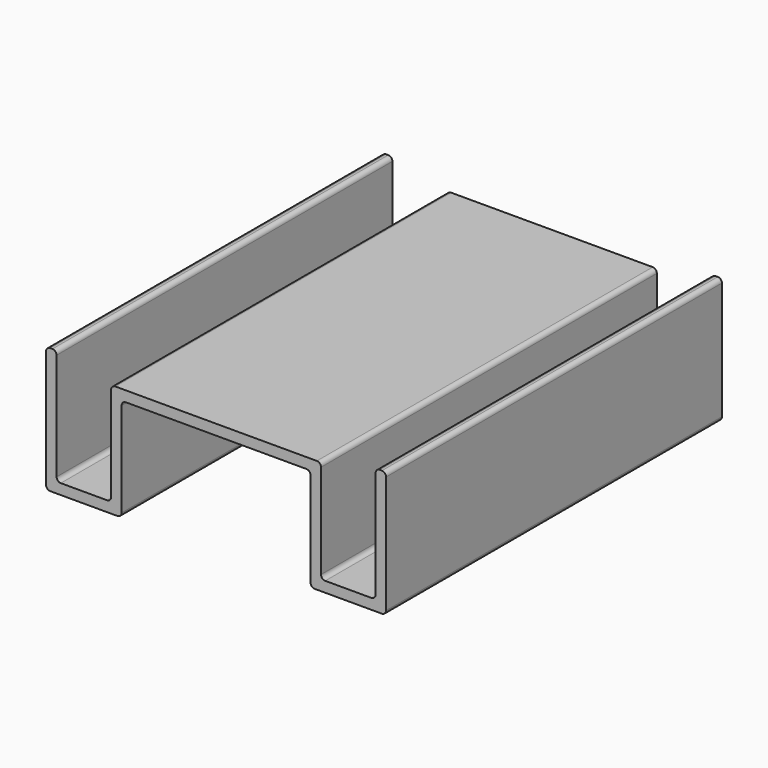
from build123d import *

# Parameters (mm, degrees)
F1_DEPTH = 100


with BuildPart() as f1:
    # F0 (on Front) → F1 (new body)
    with BuildSketch(Plane.XZ):
        with BuildLine():
            Line((23.5, -15), (39.5, -15))
            ThreePointArc((39.5, -15), (40.207107, -14.707107), (40.5, -14))
            Line((40.5, -14), (40.5, 14))
            ThreePointArc((40.5, 14), (40.207107, 14.707107), (39.5, 15))
            Line((39.5, 15), (39, 15))
            ThreePointArc((39, 15), (38.292893, 14.707107), (38, 14))
            Line((38, 14), (38, -11.5))
            ThreePointArc((38, -11.5), (37.707107, -12.207107), (37, -12.5))
            Line((37, -12.5), (26, -12.5))
            ThreePointArc((26, -12.5), (25.292893, -12.207107), (25, -11.5))
            Line((25, -11.5), (25, 9.5))
            Line((25, 9.5), (25, 11))
            ThreePointArc((25, 11), (24.707107, 11.707107), (24, 12))
            Line((24, 12), (-24, 12))
            ThreePointArc((-24, 12), (-24.707107, 11.707107), (-25, 11))
            Line((-25, 11), (-25, 9.5))
            Line((-25, 9.5), (-25, -11.5))
            ThreePointArc((-25, -11.5), (-25.292893, -12.207107), (-26, -12.5))
            Line((-26, -12.5), (-37, -12.5))
            ThreePointArc((-37, -12.5), (-37.707107, -12.207107), (-38, -11.5))
            Line((-38, -11.5), (-38, 9.5))
            Line((-38, 9.5), (-38, 12))
            Line((-38, 12), (-38, 14))
            ThreePointArc((-38, 14), (-38.292893, 14.707107), (-39, 15))
            Line((-39, 15), (-39.5, 15))
            ThreePointArc((-39.5, 15), (-40.207107, 14.707107), (-40.5, 14))
            Line((-40.5, 14), (-40.5, -14))
            ThreePointArc((-40.5, -14), (-40.207107, -14.707107), (-39.5, -15))
            Line((-39.5, -15), (-23.5, -15))
            ThreePointArc((-23.5, -15), (-22.792893, -14.707107), (-22.5, -14))
            Line((-22.5, -14), (-22.5, 8.5))
            ThreePointArc((-22.5, 8.5), (-22.207107, 9.207107), (-21.5, 9.5))
            Line((-21.5, 9.5), (21.5, 9.5))
            ThreePointArc((21.5, 9.5), (22.207107, 9.207107), (22.5, 8.5))
            Line((22.5, 8.5), (22.5, -14))
            ThreePointArc((22.5, -14), (22.792893, -14.707107), (23.5, -15))
        make_face()
    extrude(amount=F1_DEPTH)


solid = f1.part
